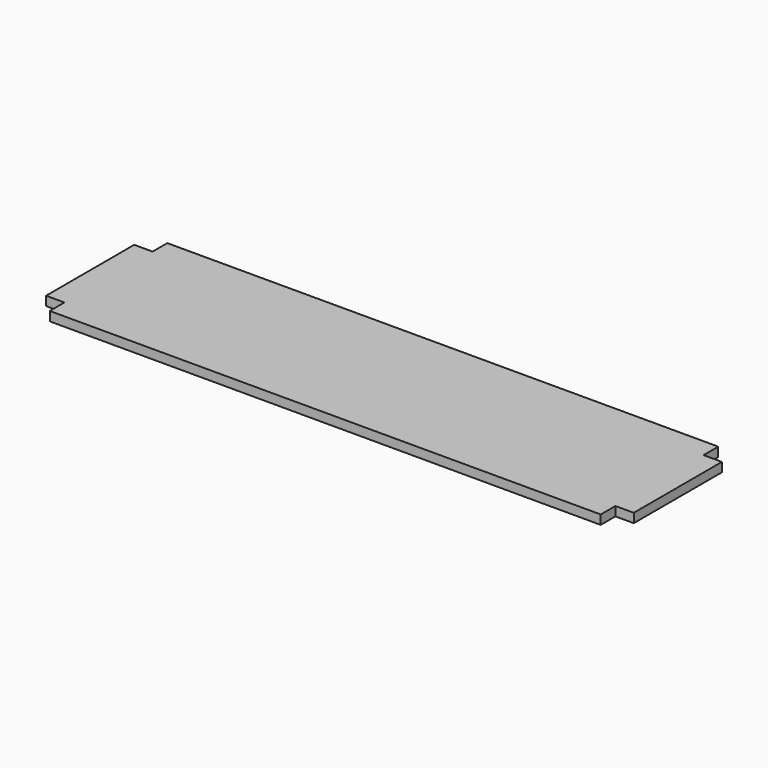
from build123d import *

# Parameters (mm, degrees)
F1_DEPTH = 25


with BuildPart() as f1:
    # F0 (on Top) → F1 (new body)
    with BuildSketch(Plane.XY):
        Polygon((-800, 150), (-800, 0), (-800, -150), (-750, -150), (-750, -200), (0, -200), (750, -200), (750, -150), (800, -150), (800, 0), (800, 150), (750, 150), (750, 200), (0, 200), (-750, 200), (-750, 150), align=None)
    extrude(amount=F1_DEPTH)


solid = f1.part
